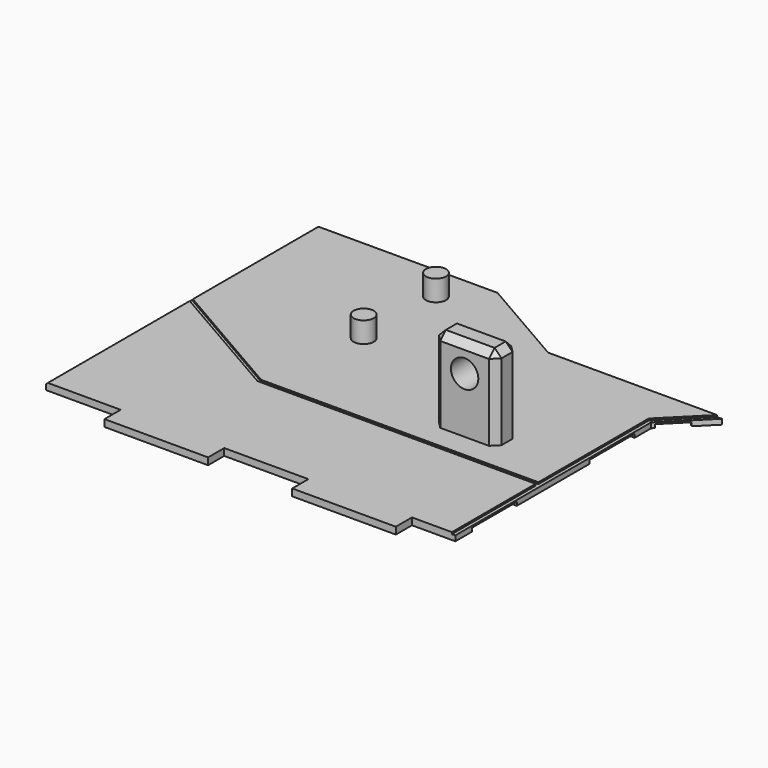
from build123d import *

# Parameters (mm, degrees)
PAD037_DEPTH    = 1
SKETCH062_W     = 8.1
SKETCH062_H     = 3.05
SKETCH062_W_2   = 3.05
SKETCH062_H_2   = 8.1
POCKET025_DEPTH = 0.5
POCKET026_DEPTH = 0.25
POCKET027_DEPTH = 0.25
CHAMFER010_SIZE = 0.25
SKETCH065_W     = 9
SKETCH065_H     = 4
PAD038_DEPTH    = 12
SKETCH066_R     = 1.97
POCKET028_DEPTH = 29.6647358036
SKETCH067_R     = 1.45
PAD039_DEPTH    = 3
CHAMFER011_SIZE = 1


with BuildPart() as part:
    # Sketch061 (on Face2 of Binder016) → Pad037 (new body)
    with BuildSketch(Plane(origin=(0, 0, -13), x_dir=(1, 0, 0), z_dir=(0, 0, -1))):
        Polygon((-61, -3.6537388036), (-61, 44.999997), (-50.28, 44.999997), (-50.28, 47.899997), (-35.38, 47.899997), (-35.38, 44.999997), (-23.28025859, 44.999997), (-23.28025859, 47.899997), (-8.38025859, 47.899997), (-8.38025859, 44.999997), (-2.14025859, 44.999997), (-2.14025859, 9.80692559), (3.5165956595, 4.1500713405), (-21.4834043405, 4.1500713405), (-35, -3.6537388036), align=None)
    extrude(amount=-PAD037_DEPTH)

    # Sketch062 (on Face16 of Pad037) → Pocket025 (cut)
    with BuildSketch(Plane(origin=(0, 0, -13), x_dir=(1, 0, 0), z_dir=(0, 0, -1))):
        with Locations((-51, -2.1287388036)):
            Rectangle(SKETCH062_W, SKETCH062_H)
        with Locations((-8.9834043405, 5.6750713405)):
            Rectangle(SKETCH062_W, SKETCH062_H)
        with Locations((-3.66525859, 16.80692559)):
            Rectangle(SKETCH062_W_2, SKETCH062_H_2)
        with Locations((-3.66525859, 37.999997)):
            Rectangle(SKETCH062_W_2, SKETCH062_H_2)
        Polygon((1.0770772644, 6.5895897356), (-1.8220605384, 9.4887275384), (-3.9787362211, 7.3320518558), (-1.0795984182, 4.432914053), align=None)
        Polygon((-31.752404736, -1.7787388033), (-24.7375989657, 2.2712611973), (-26.2625989659, 4.9126386787), (-33.2774047362, 0.8626386781), align=None)
    extrude(amount=-POCKET025_DEPTH, mode=Mode.SUBTRACT)

    # Sketch063 (on Face5 of Pocket025) → Pocket026 (cut)
    with BuildSketch(Plane.XY.offset(-12)):
        Polygon((-2.14025859, -44.999997), (-2.14025859, -9.80692559), (3.5165956595, -4.1500713405), (2.8094888783, -4.1500713405), (-2.64025859, -9.5998188088), (-2.64025859, -44.999997), align=None)
    extrude(amount=-POCKET026_DEPTH, mode=Mode.SUBTRACT)

    # Sketch064 (on Face5 of Pocket026) → Pocket027 (cut)
    with BuildSketch(Plane.XY.offset(-12)):
        Polygon((-2.64025859, -29.449997), (-42.5062839938, -29.449997), (-61, -18.7726450855), (-61, -19.3499953547), (-42.64025859, -29.949997), (-2.64025859, -29.949997), align=None)
    extrude(amount=-POCKET027_DEPTH, mode=Mode.SUBTRACT)

    # Chamfer010
    chamfer010_edges = [part.edges().sort_by_distance(p)[0] for p in [
        (-61, -32.174996, -12),
        (-61, -7.559453, -12),
    ]]
    chamfer(chamfer010_edges, length=CHAMFER010_SIZE)

    # Sketch065 (on Face46 of Chamfer010) → Pad038 (join)
    with BuildSketch(Plane.XY.offset(-12)):
        with Locations((-16.00025859, -24.009997)):
            Rectangle(SKETCH065_W, SKETCH065_H)
    extrude(amount=PAD038_DEPTH)

    # Sketch066 (on Face54 of Pad038) → Pocket028 (cut, through all)
    with BuildSketch(Plane.XZ.offset(26.009997)):
        with Locations((-16.00025859, -4)):
            Circle(SKETCH066_R)
    extrude(amount=-POCKET028_DEPTH, mode=Mode.SUBTRACT)

    # Sketch067 (on Face46 of Pocket028) → Pad039 (join)
    with BuildSketch(Plane.XY.offset(-12)):
        with Locations((-39.85, -1.3462611964)):
            Circle(SKETCH067_R)
        with Locations((-39.85, -14.3462611964)):
            Circle(SKETCH067_R)
    extrude(amount=PAD039_DEPTH)

    # Chamfer011
    chamfer011_edges = [part.edges().sort_by_distance(p)[0] for p in [
        (-11.500259, -26.009997, -6),
        (-16.000259, -26.009997, 0),
        (-20.500259, -26.009997, -6),
        (-20.500259, -24.009997, 0),
        (-16.000259, -22.009997, 0),
        (-11.500259, -24.009997, 0),
        (-11.500259, -22.009997, -6),
        (-20.500259, -22.009997, -6),
    ]]
    chamfer(chamfer011_edges, length=CHAMFER011_SIZE)


solid = part.part
